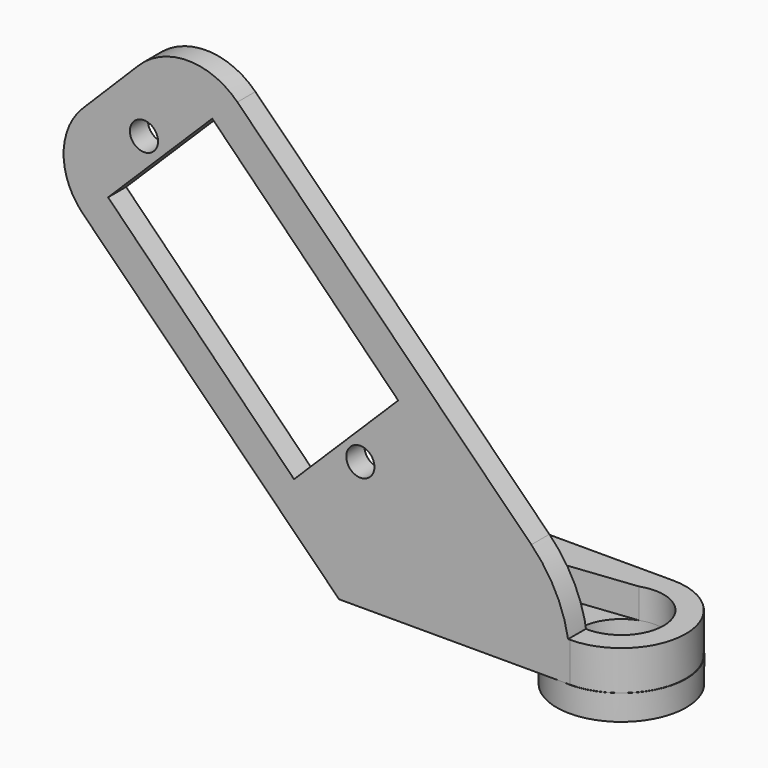
from build123d import *

# Parameters (mm, degrees)
SKETCH045_R        = 5.75
SKETCH045_R_2      = 3.75
PAD013_DEPTH       = 2.25
PAD014_DEPTH       = 3.5
POCKET003048_DEPTH = 2.65
SKETCH048_R        = 3.75
SKETCH048_R_2      = 0.75
POCKET003049_DEPTH = 5
SKETCH050_R        = 1.25
PAD015_DEPTH       = 2


with BuildPart() as part:
    # Sketch045 → Pad013 (new body)
    with BuildSketch(Plane.XY):
        Circle(SKETCH045_R)
        Circle(SKETCH045_R_2, mode=Mode.SUBTRACT)
    extrude(amount=PAD013_DEPTH)

    # Sketch047 (on Face4 of Pad013) → Pad014 (join)
    with BuildSketch(Plane.XY.offset(2.25)):
        with BuildLine():
            Line((0, 5.714965), (-20.5, 5.714965))
            Line((-20.5, 5.714965), (-20.5, -5.714965))
            Line((0, -5.714965), (-20.5, -5.714965))
            ThreePointArc((0, -5.714965), (5.714965, 0), (0, 5.714965))
        make_face()
    extrude(amount=PAD014_DEPTH)

    # Sketch046 (on Face11 of Pad014) → Pocket003048 (cut)
    with BuildSketch(Plane.XY.offset(5.75)):
        with BuildLine():
            Line((-1.25, 3.535534), (-16.999999, 1.742953))
            ThreePointArc((-16.999999, 1.742953), (-18.232454, 1.232454), (-18.742953, 0))
            ThreePointArc((-18.742953, 0), (-18.232454, -1.232454), (-16.999999, -1.742953))
            Line((-1.25, -3.535534), (-16.999999, -1.742953))
            ThreePointArc((-1.25, -3.535534), (2.165064, -3.061862), (3.75, 0))
            ThreePointArc((3.75, 0), (2.165064, 3.061862), (-1.25, 3.535534))
        make_face()
    extrude(amount=-POCKET003048_DEPTH, mode=Mode.SUBTRACT)

    # Sketch048 (on Face16 of Pocket003048) → Pocket003049 (cut)
    with BuildSketch(Plane.XY.offset(3.1)):
        Circle(SKETCH048_R)
        with Locations((-14.5, 0)):
            Circle(SKETCH048_R_2)
        with Locations((-12.5, 0)):
            Circle(SKETCH048_R_2)
        with Locations((-10.5, 0)):
            Circle(SKETCH048_R_2)
        with Locations((-8.5, 0)):
            Circle(SKETCH048_R_2)
        with Locations((-6.5, 0)):
            Circle(SKETCH048_R_2)
    extrude(amount=-POCKET003049_DEPTH, mode=Mode.SUBTRACT)

    # Sketch050 (on Face2 of Pocket003049) → Pad015 (join)
    with BuildSketch(Plane.XZ.offset(5.714965)):
        with BuildLine():
            Line((-20.5, 2.25), (-43.255932, 25.005932))
            ThreePointArc((-43.255932, 33.234184), (-44.960058, 29.120058), (-43.255932, 25.005932))
            Line((-43.255932, 33.234184), (-38.30976, 38.180356))
            ThreePointArc((-29.532214, 38.180356), (-33.920987, 39.998245), (-38.30976, 38.180356))
            Line((-29.532214, 38.180356), (-3.425929, 12.074071))
            ThreePointArc((0, 3.803146), (-0.89037, 8.279338), (-3.425929, 12.074071))
            Line((0, 3.803146), (0, 2.25))
            Line((-20.5, 2.25), (0, 2.25))
        make_face()
        with Locations((-37.825367, 32.817886)):
            Circle(SKETCH050_R, mode=Mode.SUBTRACT)
        with Locations((-18.610336, 13.616402)):
            Circle(SKETCH050_R, mode=Mode.SUBTRACT)
        Polygon((-41.009785, 27.002425), (-31.760418, 36.165919), (-15.249238, 19.500009), (-24.498605, 10.336516), align=None, mode=Mode.SUBTRACT)
    extrude(amount=-PAD015_DEPTH)


with BuildPart() as part_1:
    # Body009 placement: moved
    add(part.part.moved(Location((0, 0, 44))))


solid = part_1.part
